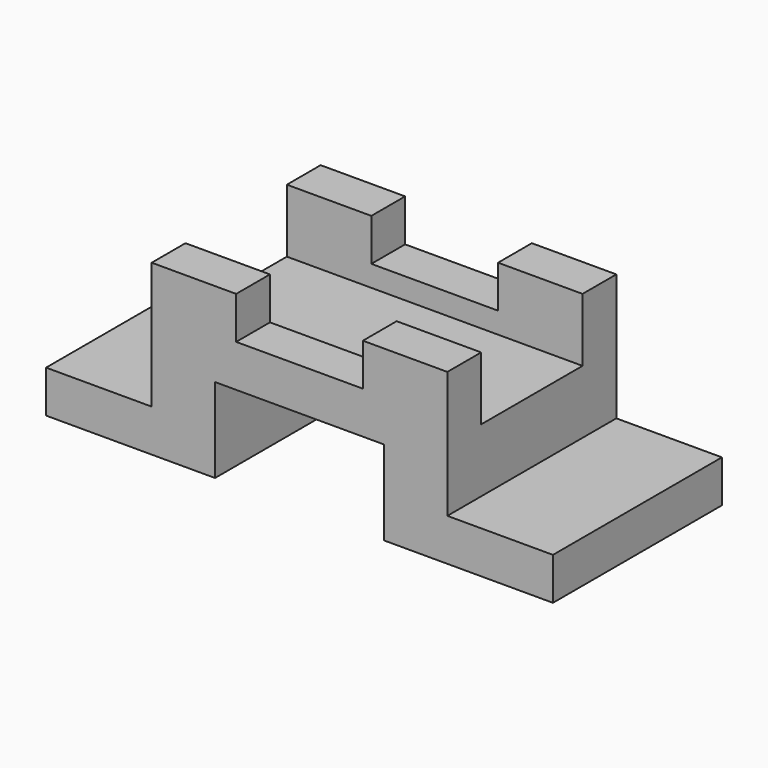
from build123d import *

# Parameters (mm, degrees)
F2_DEPTH = 50
F3_W     = 30
F3_H     = 15
F4_DEPTH = 70


with BuildPart() as f2:
    # F1 (on Front) → F2 (new body)
    with BuildSketch(Plane.XZ):
        Polygon((0, 20), (0, 0), (40, 0), (40, 10), (15, 10), (15, 40), (-5, 40), (-5, 30), (-35, 30), (-35, 40), (-55, 40), (-55, 10), (-80, 10), (-80, 0), (-40, 0), (-40, 20), align=None)
    extrude(amount=-F2_DEPTH)

    # F3 (on face) → F4 (cut)
    with BuildSketch(Plane.YZ.offset(15)):
        with Locations((25, 32.5)):
            Rectangle(F3_W, F3_H)
    extrude(amount=-F4_DEPTH, mode=Mode.SUBTRACT)


solid = f2.part
